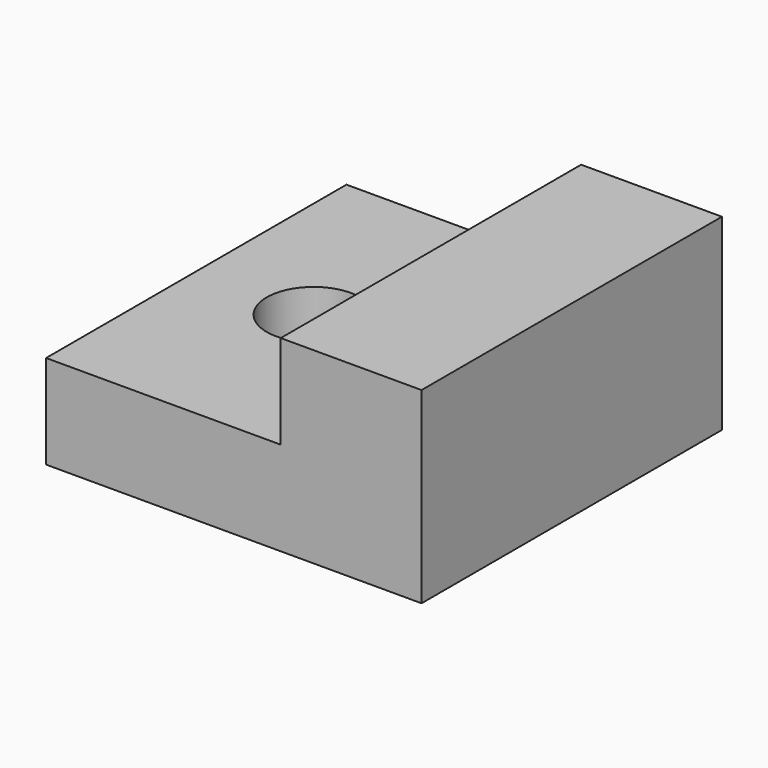
from build123d import *

# Parameters (mm, degrees)
F0_W     = 8
F0_H     = 8
F0_R     = 1
F1_DEPTH = 2
F2_W     = 3
F2_H     = 8
F3_DEPTH = 2


with BuildPart() as f1:
    # F0 (on Top) → F1 (new body)
    with BuildSketch(Plane.XY):
        Rectangle(F0_W, F0_H)
        with Locations((-1.5, 0)):
            Circle(F0_R, mode=Mode.SUBTRACT)
    extrude(amount=F1_DEPTH)

    # F2 (on face) → F3 (join)
    with BuildSketch(Plane.XY.offset(2)):
        with Locations((2.5, 0)):
            Rectangle(F2_W, F2_H)
    extrude(amount=F3_DEPTH)


solid = f1.part
